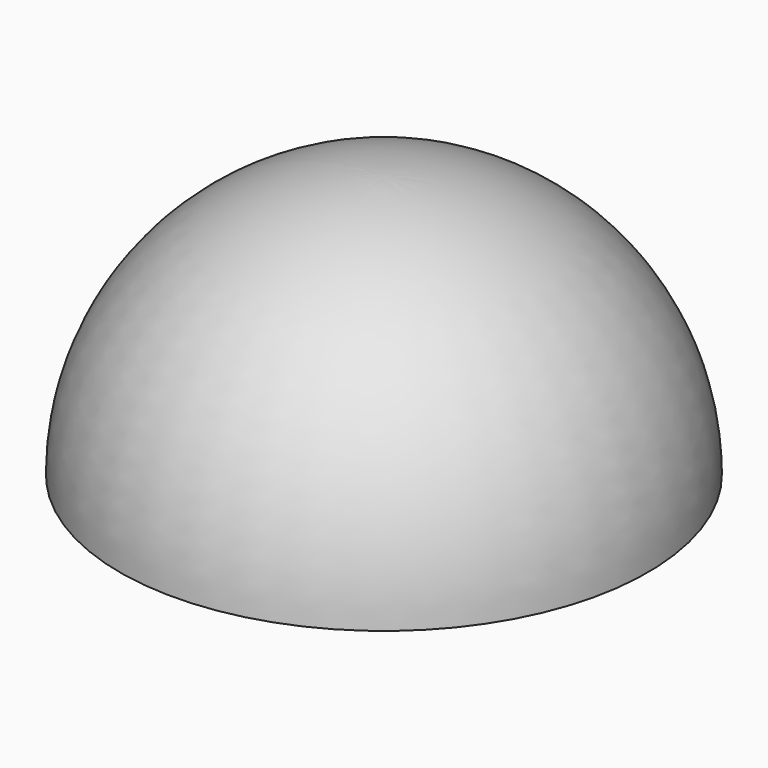
from build123d import *


with BuildPart() as f1:
    # F0 (on Front) → F1 (revolve)
    with BuildSketch(Plane.XZ):
        with BuildLine():
            Line((0, 11.7), (0, 12.7))
            ThreePointArc((0, 12.7), (-8.980256, 8.980256), (-12.7, 0))
            Line((-12.7, 0), (-11.7, 0))
            ThreePointArc((-11.7, 0), (-8.273149, 8.273149), (0, 11.7))
        make_face()
        with BuildLine():
            Line((0, 0), (0, 11.7))
            ThreePointArc((0, 11.7), (-8.273149, 8.273149), (-11.7, 0))
            Line((-11.7, 0), (0, 0))
        make_face()
    revolve(axis=Axis((0, 0, 2.397388), (0, 0, -1)))


solid = f1.part
